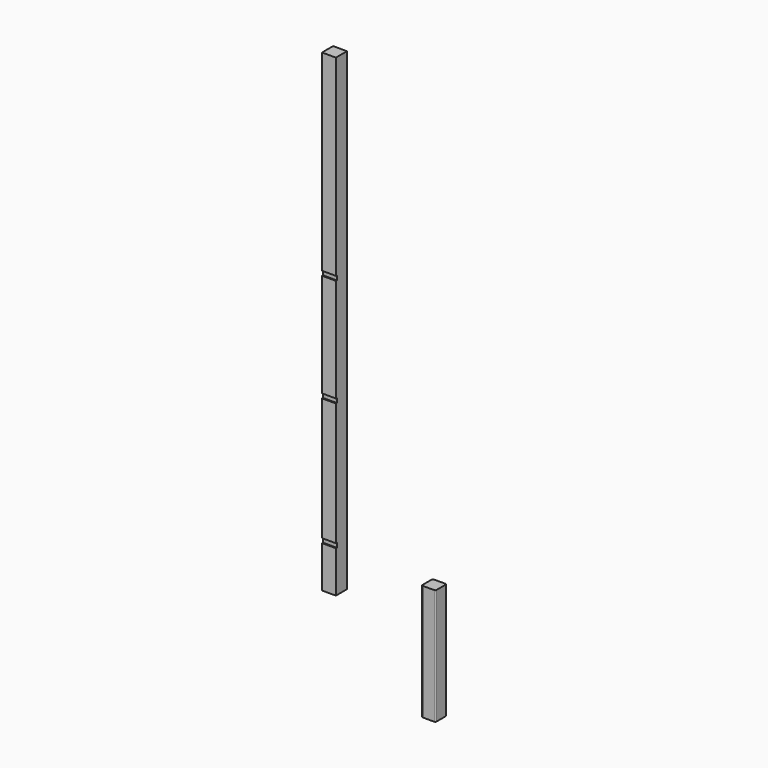
from build123d import *

# Parameters (mm, degrees)
F0_W     = 3.15
F0_H     = 3.15
F1_DEPTH = 26.3
F2_R     = 0.25
F3_DEPTH = 107.5
F4_W     = 3.15
F4_H     = 1
F5_DEPTH = 0.25


with BuildPart() as f1:
    # F0 (on Top) → F1 (new body)
    with BuildSketch(Plane.XY):
        Rectangle(F0_W, F0_H)
    extrude(amount=F1_DEPTH)

    # F2
    f2_edges = [f1.edges().sort_by_distance(p)[0] for p in [
        (-1.575, -1.575, 13.15),
        (1.575, -1.575, 13.15),
        (1.575, 1.575, 13.15),
        (-1.575, 1.575, 13.15),
    ]]
    fillet(f2_edges, radius=F2_R)


with BuildPart() as f3:
    # F0 (on Top) → F3 (new body)
    with BuildSketch(Plane.XY):
        with Locations((-44.120011, 26.895686)):
            Rectangle(F0_W, F0_H)
    extrude(amount=F3_DEPTH)

    # F4 (on face) → F5 (cut)
    with BuildSketch(Plane.XZ.offset(-25.320686)):
        with Locations((-44.120011, 9.97)):
            Rectangle(F4_W, F4_H)
        with Locations((-44.120011, 38.893)):
            Rectangle(F4_W, F4_H)
        with Locations((-44.120011, 63.393)):
            Rectangle(F4_W, F4_H)
    extrude(amount=-F5_DEPTH, mode=Mode.SUBTRACT)


solid = Compound([f1.part, f3.part])
